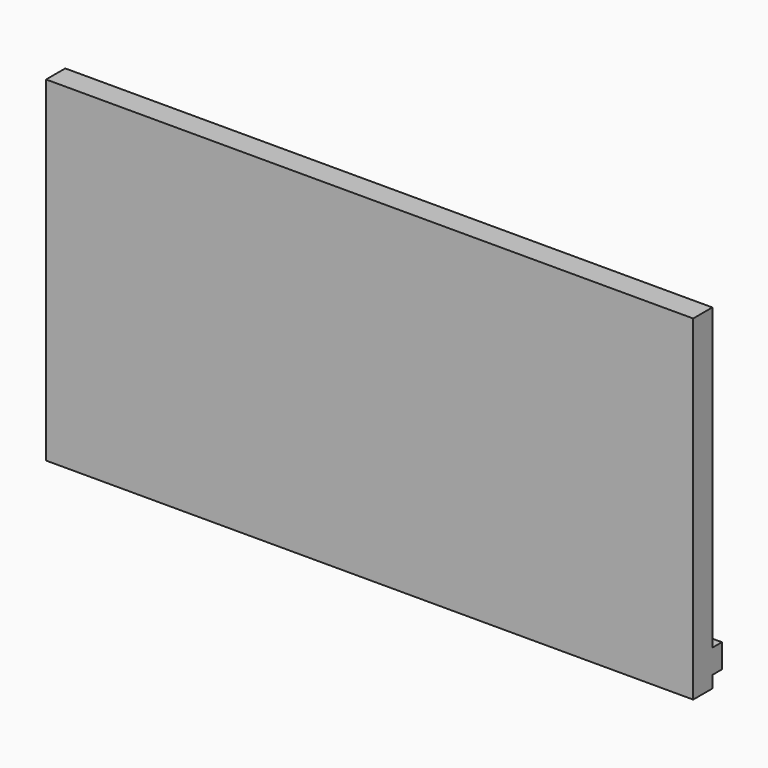
from build123d import *

# Parameters (mm, degrees)
F0_W     = 342.9
F0_H     = 177.8
F1_DEPTH = 12.7
F2_W     = 342.9
F2_H     = 12.7
F3_DEPTH = 6.35


with BuildPart() as f1:
    # F0 (on Front) → F1 (new body)
    with BuildSketch(Plane.XZ):
        Rectangle(F0_W, F0_H)
    extrude(amount=F1_DEPTH)

    # F2 (on face) → F3 (join)
    with BuildSketch(Plane(origin=(0, 0, 0), x_dir=(-1, 0, 0), z_dir=(0, 1, 0))):
        with Locations((0, -76.2)):
            Rectangle(F2_W, F2_H)
    extrude(amount=F3_DEPTH)


solid = f1.part
